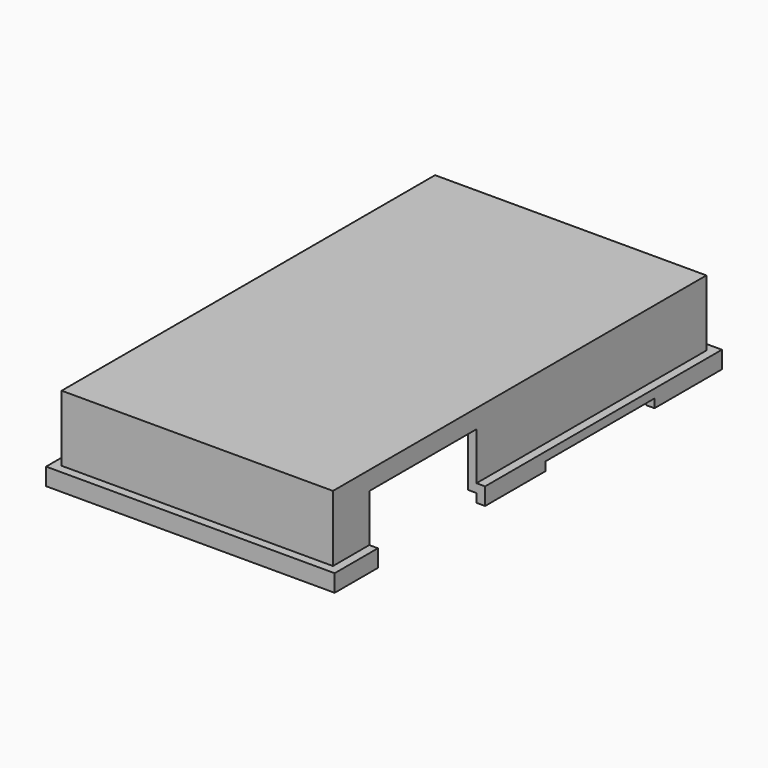
from build123d import *

# Parameters (mm, degrees)
SKETCH004_W     = 66.78
SKETCH004_H     = 112
PAD002_DEPTH    = 4
SKETCH005_W     = 62.78
SKETCH005_H     = 108
PAD003_DEPTH    = 15.3
SKETCH006_W     = 62.78
SKETCH006_H     = 108
POCKET002_DEPTH = 2
SKETCH007_W     = 58.78
SKETCH007_H     = 104
POCKET003_DEPTH = 15.3
SKETCH008_R     = 3.5
PAD004_DEPTH    = 14.5
SKETCH009_R     = 2.5
PAD005_DEPTH    = 0.8
SKETCH010_W     = 31.5
SKETCH010_H     = 5.15
POCKET004_DEPTH = 5
SKETCH011_W     = 31
SKETCH011_H     = 15
POCKET005_DEPTH = 5


with BuildPart() as part:
    # Sketch004 → Pad002 (new body)
    with BuildSketch(Plane.XY):
        with Locations((31.39, 54)):
            Rectangle(SKETCH004_W, SKETCH004_H)
    extrude(amount=-PAD002_DEPTH)

    # Sketch005 (on Face5 of Pad002) → Pad003 (join)
    with BuildSketch(Plane.XY):
        with Locations((31.39, 54)):
            Rectangle(SKETCH005_W, SKETCH005_H)
    extrude(amount=PAD003_DEPTH)

    # Sketch006 (on Face5 of Pad003) → Pocket002 (cut)
    with BuildSketch(Plane(origin=(0, 0, -4), x_dir=(1, 0, 0), z_dir=(0, 0, -1))):
        with Locations((31.39, -54)):
            Rectangle(SKETCH006_W, SKETCH006_H)
    extrude(amount=-POCKET002_DEPTH, mode=Mode.SUBTRACT)

    # Sketch007 (on Face16 of Pocket002) → Pocket003 (cut)
    with BuildSketch(Plane(origin=(0, 0, -2), x_dir=(1, 0, 0), z_dir=(0, 0, -1))):
        with Locations((31.39, -54)):
            Rectangle(SKETCH007_W, SKETCH007_H)
    extrude(amount=-POCKET003_DEPTH, mode=Mode.SUBTRACT)

    # Sketch008 (on Face21 of Pocket003) → Pad004 (join)
    with BuildSketch(Plane(origin=(0, 0, 13.3), x_dir=(1, 0, 0), z_dir=(0, 0, -1))):
        with Locations((7, -7)):
            Circle(SKETCH008_R)
        with Locations((47, -7)):
            Circle(SKETCH008_R)
        with Locations((7, -101)):
            Circle(SKETCH008_R)
        with Locations((47, -101)):
            Circle(SKETCH008_R)
    extrude(amount=PAD004_DEPTH)

    # Sketch009 (on Face28 of Pad004) → Pad005 (join)
    with BuildSketch(Plane(origin=(0, 0, -1.2), x_dir=(1, 0, 0), z_dir=(0, 0, -1))):
        with Locations((7, -7)):
            Circle(SKETCH009_R)
        with Locations((47, -7)):
            Circle(SKETCH009_R)
        with Locations((7, -101)):
            Circle(SKETCH009_R)
        with Locations((47, -101)):
            Circle(SKETCH009_R)
    extrude(amount=PAD005_DEPTH)

    # Sketch010 (on Face3 of Pad005) → Pocket004 (cut)
    with BuildSketch(Plane.YZ.offset(64.78)):
        with Locations((74.75, -4.575)):
            Rectangle(SKETCH010_W, SKETCH010_H)
    extrude(amount=-POCKET004_DEPTH, mode=Mode.SUBTRACT)

    # Sketch011 (on Face3 of Pocket004) → Pocket005 (cut)
    with BuildSketch(Plane.YZ.offset(64.78)):
        with Locations((26, 3.5)):
            Rectangle(SKETCH011_W, SKETCH011_H)
    extrude(amount=-POCKET005_DEPTH, mode=Mode.SUBTRACT)


solid = part.part
